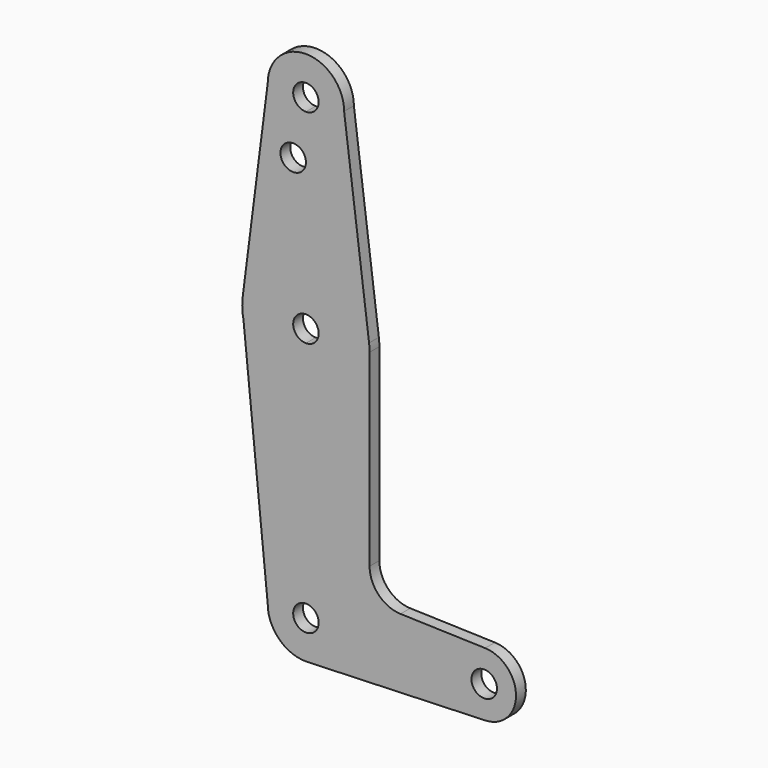
from build123d import *

# Parameters (mm, degrees)
F0_R     = 3.175
F1_DEPTH = 3.048


with BuildPart() as f1:
    # F0 (on Front) → F1 (new body)
    with BuildSketch(Plane.XZ):
        with BuildLine():
            ThreePointArc((3.175, 0), (-2.2450640303, -2.2450640303), (0, 3.175))
            Line((0, 3.175), (0, 9.525))
            ThreePointArc((0, 9.525), (-6.7351920908, 6.7351920908), (-9.525, 0))
            ThreePointArc((-9.525, 0), (-6.7351920908, -6.7351920908), (0, -9.525))
            Line((0, -9.525), (0.6773435479, -9.500885786))
            ThreePointArc((0.6773435479, -9.500885786), (6.9705567315, -6.4912990883), (9.525, 0))
            Line((9.525, 0), (3.175, 0))
        make_face()
        with BuildLine():
            ThreePointArc((-9.525, 0), (-6.7351920908, 6.7351920908), (0, 9.525))
            Line((0, 9.525), (0, 47.625))
            ThreePointArc((0, 47.625), (-10.0526499203, 51.2134278751), (-15.5606435644, 60.3564356436))
            Line((-15.5606435644, 60.3564356436), (-9.525, 0))
        make_face()
        with BuildLine():
            Line((0, 47.625), (0, 9.525))
            ThreePointArc((0, 9.525), (6.7351920908, 6.7351920908), (9.525, 0))
            Line((9.525, 0), (36.5125, 0))
            ThreePointArc((36.5125, 0), (38.9239306999, 5.6979350945), (44.6930264481, 7.9337786959))
            Line((44.6930264481, 7.9337786959), (23.5817847096, 8.5804554297))
            ThreePointArc((23.5817847096, 8.5804554297), (18.1181482094, 10.9920171606), (15.875, 16.5269281715))
            Line((15.875, 16.5269281715), (15.875, 63.5))
            ThreePointArc((15.875, 63.5), (11.2253201513, 52.2746798487), (0, 47.625))
        make_face()
        with BuildLine():
            Line((36.5125, 0), (9.525, 0))
            ThreePointArc((9.525, 0), (6.9705567315, -6.4912990883), (0.6773435479, -9.500885786))
            Line((0.6773435479, -9.500885786), (44.7324052746, -7.9324746146))
            ThreePointArc((44.7324052746, -7.9324746146), (38.9380895153, -5.7116327839), (36.5125, 0))
        make_face()
        with BuildLine():
            ThreePointArc((-15.5606435644, 60.3564356436), (-10.0526499203, 51.2134278751), (0, 47.625))
            Line((0, 47.625), (0, 60.325))
            ThreePointArc((0, 60.325), (-3.175, 63.5), (0, 66.675))
            Line((0, 66.675), (0, 79.375))
            ThreePointArc((0, 79.375), (-10.4912828548, 75.4142187767), (-15.7474569047, 65.5082893304))
            ThreePointArc((-15.7474569047, 65.5082893304), (-15.8430821396, 64.5061676396), (-15.875, 63.5))
            Line((-15.875, 63.5), (-15.5606435644, 60.3564356436))
        make_face()
        with BuildLine():
            Line((0, 60.325), (0, 47.625))
            ThreePointArc((0, 47.625), (11.2253201513, 52.2746798487), (15.875, 63.5))
            ThreePointArc((15.875, 63.5), (15.8430821396, 64.5061676396), (15.7474569047, 65.5082893304))
            ThreePointArc((15.7474569047, 65.5082893304), (10.4912828548, 75.4142187767), (0, 79.375))
            Line((0, 79.375), (0, 66.675))
            ThreePointArc((0, 66.675), (2.2450640303, 65.7450640303), (3.175, 63.5))
            ThreePointArc((3.175, 63.5), (2.2450640303, 61.2549359697), (0, 60.325))
        make_face()
        with BuildLine():
            ThreePointArc((44.6930264481, 7.9337786959), (38.9239306999, 5.6979350945), (36.5125, 0))
            ThreePointArc((36.5125, 0), (38.9380895153, -5.7116327839), (44.7324052746, -7.9324746146))
            ThreePointArc((44.7324052746, -7.9324746146), (50.1616327839, -5.5119104847), (52.3875, 0))
            ThreePointArc((52.3875, 0), (50.1479350945, 5.5260693001), (44.6930264481, 7.9337786959))
        make_face()
        with BuildLine():
            ThreePointArc((47.625, 0), (44.45, -3.175), (41.275, 0))
            ThreePointArc((41.275, 0), (44.45, 3.175), (47.625, 0))
        make_face(mode=Mode.SUBTRACT)
        with BuildLine():
            ThreePointArc((0, -9.525), (0.3388863295, -9.5189695375), (0.6773435479, -9.500885786))
            Line((0.6773435479, -9.500885786), (0, -9.525))
        make_face()
        with BuildLine():
            ThreePointArc((-15.5652161214, 60.3791552277), (-15.5629339888, 60.3677946012), (-15.5606435644, 60.3564356436))
            Line((-15.5606435644, 60.3564356436), (-15.875, 63.5))
            Line((-15.875, 63.5), (-15.5652161214, 60.3791552277))
        make_face()
        with BuildLine():
            ThreePointArc((-15.875, 63.5), (-15.7973641936, 61.9319089516), (-15.5652161214, 60.3791552277))
            Line((-15.5652161214, 60.3791552277), (-15.875, 63.5))
        make_face()
        with BuildLine():
            ThreePointArc((0, 79.375), (10.4912828548, 75.4142187767), (15.7474569047, 65.5082893304))
            Line((15.7474569047, 65.5082893304), (9.525, 114.3))
            ThreePointArc((9.525, 114.3), (6.7351920908, 107.5648079092), (0, 104.775))
            Line((0, 104.775), (0, 100.0252))
            Line((0, 100.0252), (0, 79.375))
        make_face()
        with BuildLine():
            ThreePointArc((-15.7474569047, 65.5082893304), (-10.4912828548, 75.4142187767), (0, 79.375))
            Line((0, 79.375), (0, 100.0252))
            Line((0, 100.0252), (0, 104.775))
            ThreePointArc((0, 104.775), (-6.7351920908, 107.5648079092), (-9.525, 114.3))
            Line((-9.525, 114.3), (-15.7474569047, 65.5082893304))
        make_face()
        with Locations((-3.175, 100.0252)):
            Circle(F0_R, mode=Mode.SUBTRACT)
        with BuildLine():
            ThreePointArc((0, 104.775), (6.7351920908, 107.5648079092), (9.525, 114.3))
            ThreePointArc((9.525, 114.3), (0, 123.825), (-9.525, 114.3))
            ThreePointArc((-9.525, 114.3), (-6.7351920908, 107.5648079092), (0, 104.775))
        make_face()
        with BuildLine():
            ThreePointArc((3.175, 114.3), (2.2450640303, 112.0549359697), (0, 111.125))
            ThreePointArc((0, 111.125), (-2.2450640303, 116.5450640303), (3.175, 114.3))
        make_face(mode=Mode.SUBTRACT)
        with BuildLine():
            Line((0, 9.525), (0, 3.175))
            ThreePointArc((0, 3.175), (2.2450640303, 2.2450640303), (3.175, 0))
            Line((3.175, 0), (9.525, 0))
            ThreePointArc((9.525, 0), (6.7351920908, 6.7351920908), (0, 9.525))
        make_face()
    extrude(amount=F1_DEPTH)


solid = f1.part
